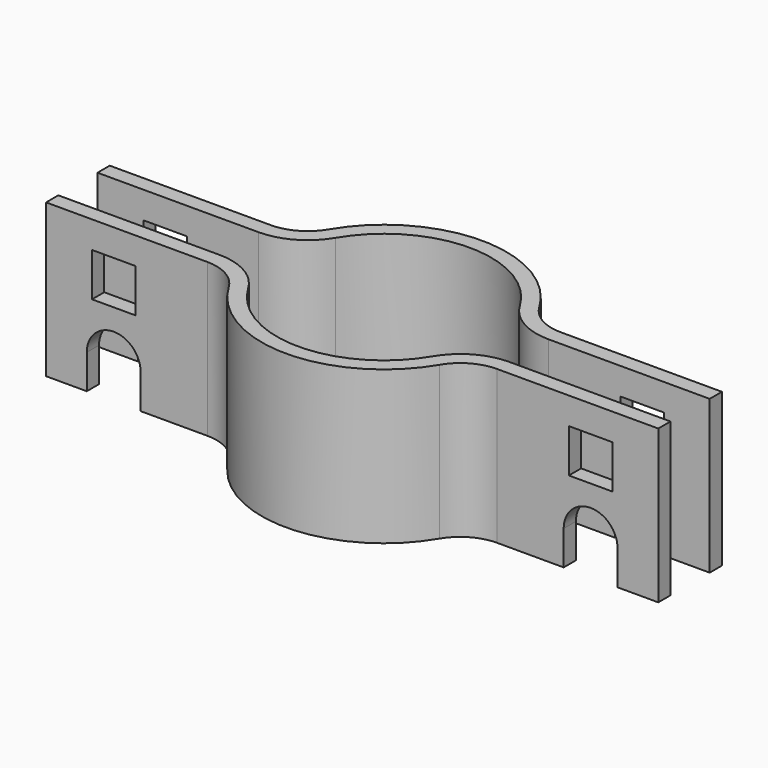
from build123d import *

# Parameters (mm, degrees)
F1_DEPTH = 31.75
F2_W     = 9.017
F2_H     = 9.017
F3_DEPTH = 25.4


with BuildPart() as f1:
    # F0 (on Top) → F1 (new body)
    with BuildSketch(Plane.XY):
        with BuildLine():
            ThreePointArc((19.129341, -11.314545), (0, -22.225), (-19.129341, -11.314545))
            ThreePointArc((-19.129341, -11.314545), (-23.768385, -6.748199), (-30.060393, -5.08))
            Line((-30.060393, -5.08), (-63.5, -5.08))
            Line((-63.5, -5.08), (-63.5, -8.255))
            Line((-63.5, -8.255), (-30.060393, -8.255))
            ThreePointArc((-30.060393, -8.255), (-25.341387, -9.506149), (-21.862104, -12.930909))
            ThreePointArc((-21.862104, -12.930909), (0, -25.4), (21.862104, -12.930909))
            ThreePointArc((21.862104, -12.930909), (25.341387, -9.506149), (30.060393, -8.255))
            Line((30.060393, -8.255), (63.5, -8.255))
            Line((63.5, -8.255), (63.5, -5.08))
            Line((63.5, -5.08), (30.060393, -5.08))
            ThreePointArc((30.060393, -5.08), (23.768385, -6.748199), (19.129341, -11.314545))
        make_face()
        with BuildLine():
            Line((-30.060393, 8.255), (-63.5, 8.255))
            Line((-63.5, 8.255), (-63.5, 5.08))
            Line((-63.5, 5.08), (-30.060393, 5.08))
            ThreePointArc((-30.060393, 5.08), (-23.768385, 6.748199), (-19.129341, 11.314545))
            ThreePointArc((-19.129341, 11.314545), (0, 22.225), (19.129341, 11.314545))
            ThreePointArc((19.129341, 11.314545), (23.768385, 6.748199), (30.060393, 5.08))
            Line((30.060393, 5.08), (63.5, 5.08))
            Line((63.5, 5.08), (63.5, 8.255))
            Line((63.5, 8.255), (30.060393, 8.255))
            ThreePointArc((30.060393, 8.255), (25.341387, 9.506149), (21.862104, 12.930909))
            ThreePointArc((21.862104, 12.930909), (0, 25.4), (-21.862104, 12.930909))
            ThreePointArc((-21.862104, 12.930909), (-25.341387, 9.506149), (-30.060393, 8.255))
        make_face()
    extrude(amount=F1_DEPTH)

    # F2 (on Front) → F3 (cut, symmetric)
    with BuildSketch(Plane.XZ):
        with Locations((-49.4665, 21.6535)):
            Rectangle(F2_W, F2_H)
        with BuildLine():
            Line((-43.8785, 0), (-43.8785, 7.112))
            ThreePointArc((-43.8785, 7.112), (-49.4665, 12.7), (-55.0545, 7.112))
            Line((-55.0545, 7.112), (-55.0545, 0))
            Line((-55.0545, 0), (-43.8785, 0))
        make_face()
        with Locations((49.4665, 21.6535)):
            Rectangle(F2_W, F2_H)
        with BuildLine():
            ThreePointArc((55.0545, 7.112), (49.4665, 12.7), (43.8785, 7.112))
            Line((43.8785, 7.112), (43.8785, 0))
            Line((43.8785, 0), (55.0545, 0))
            Line((55.0545, 0), (55.0545, 7.112))
        make_face()
    extrude(amount=F3_DEPTH, both=True, mode=Mode.SUBTRACT)


solid = f1.part
